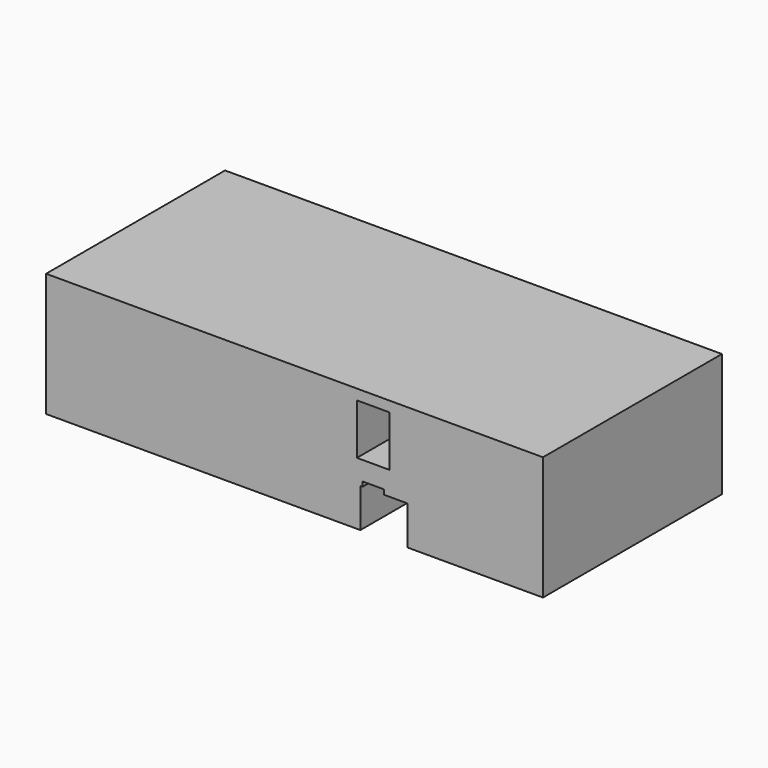
from build123d import *

# Parameters (mm, degrees)
F0_W     = 3.695875
F0_H     = 5.748562
F1_DEPTH = 25.4


with BuildPart() as f1:
    # F0 (on Front) → F1 (new body)
    with BuildSketch(Plane.XZ):
        Polygon((-40.80154, 15.170667), (-40.80154, 29.195067), (-97.225189, 29.195067), (-97.225189, 15.170667), (-61.536115, 15.170667), (-61.536115, 19.578416), (-61.293278, 19.578416), (-61.293278, 20.11823), (-58.867801, 20.11823), (-58.867801, 19.578416), (-56.199487, 19.578416), (-56.199487, 15.170667), align=None)
        with Locations((-60.08054, 25.141839)):
            Rectangle(F0_W, F0_H, mode=Mode.SUBTRACT)
    extrude(amount=F1_DEPTH)


solid = f1.part
